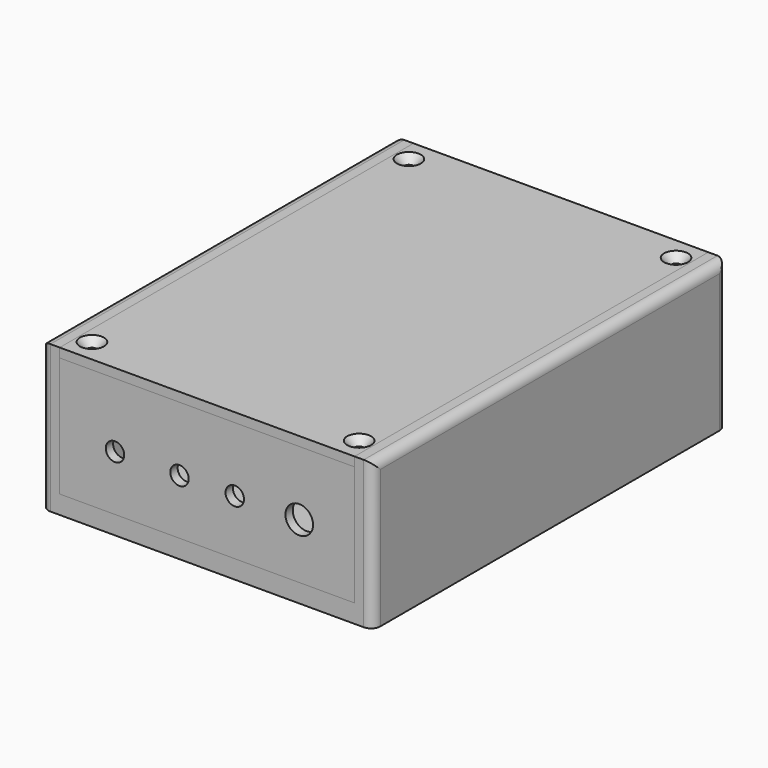
from build123d import *

# Parameters (mm, degrees)
F0_W              = 114.3
F0_H              = 152.4
F1_DEPTH          = 50.8
F2_W              = 101.6
F2_H              = 152.4
F3_DEPTH          = 44.45
F4_W              = 146.05
F4_H              = 41.275
F5_DEPTH          = 9.525
F7_R              = 3.175
F8_W              = 101.6
F8_H              = 152.4
F9_DEPTH          = 3.175
F11_D             = 3.175
F11_DEPTH         = 15.875
F11_CSINK_D       = 8.255
F11_CSINK_ANGLE   = 90
F11_TIP           = 0.9538662327
F11_2_D           = 3.175
F11_2_DEPTH       = 15.875
F11_2_CSINK_D     = 8.255
F11_2_CSINK_ANGLE = 90
F11_2_TIP         = 0.9538662327
F12_W             = 101.6
F12_H             = 41.275
F12_R             = 3.175
F12_R_2           = 4.7625
F13_DEPTH         = 3.175
F14_W             = 101.6
F14_H             = 41.275
F14_R             = 3.175
F14_R_2           = 2.2225
F15_DEPTH         = 3.175


with BuildPart() as f1:
    # F0 (on Top) → F1 (new body)
    with BuildSketch(Plane.XY):
        Rectangle(F0_W, F0_H)
    extrude(amount=F1_DEPTH)

    # F2 (on face) → F3 (cut, through all)
    with BuildSketch(Plane.XY.offset(50.8)):
        Rectangle(F2_W, F2_H)
    extrude(amount=-F3_DEPTH, mode=Mode.SUBTRACT)

    # F4 (on face) → F5 (join)
    with BuildSketch(Plane(origin=(50.8, 0, 0), x_dir=(0, -1, 0), z_dir=(-1, 0, 0))):
        with Locations((0, 26.9875)):
            Rectangle(F4_W, F4_H)
    extrude(amount=F5_DEPTH)

    # F6: F1 across plane


with BuildPart() as f1_1:
    add(f1.part)
    add(f1.part.mirror(Plane.YZ))

    # F7
    f7_edges = [f1_1.edges().sort_by_distance(p)[0] for p in [
        (57.15, 0, 50.8),
        (57.15, 76.2, 25.4),
        (57.15, -76.2, 25.4),
        (-57.15, 0, 50.8),
        (-57.15, 76.2, 25.4),
        (-57.15, -76.2, 25.4),
    ]]
    fillet(f7_edges, radius=F7_R)

    # F11
    with Locations(Plane.XY.offset(50.8)):
        with Locations((-46.0375, -68.2625), (46.0375, -68.2625), (46.0375, 68.2625), (-46.0375, 68.2625)):
            CounterSinkHole(F11_D / 2, F11_CSINK_D / 2, depth=F11_DEPTH, counter_sink_angle=F11_CSINK_ANGLE)
            with Locations((0, 0, -(F11_DEPTH + F11_TIP / 2))):  # 118° drill point
                Cone(0, F11_D / 2, F11_TIP, mode=Mode.SUBTRACT)


with BuildPart() as f9:
    # F8 (on face) → F9 (new body, through all)
    with BuildSketch(Plane.XY.offset(47.625)):
        Rectangle(F8_W, F8_H)
    extrude(amount=F9_DEPTH)

    # F11#2
    with Locations(Plane.XY.offset(50.8)):
        with Locations((-46.0375, -68.2625), (46.0375, -68.2625), (46.0375, 68.2625), (-46.0375, 68.2625)):
            CounterSinkHole(F11_2_D / 2, F11_2_CSINK_D / 2, depth=F11_2_DEPTH, counter_sink_angle=F11_2_CSINK_ANGLE)
            with Locations((0, 0, -(F11_2_DEPTH + F11_2_TIP / 2))):  # 118° drill point
                Cone(0, F11_2_D / 2, F11_2_TIP, mode=Mode.SUBTRACT)


with BuildPart() as f13:
    # F12 (on face) → F13 (new body, through all)
    with BuildSketch(Plane.XZ.offset(73.025)):
        with Locations((0, 26.9875)):
            Rectangle(F12_W, F12_H)
        with Locations((-31.75, 25.4)):
            Circle(F12_R, mode=Mode.SUBTRACT)
        with Locations((-9.525, 25.4)):
            Circle(F12_R, mode=Mode.SUBTRACT)
        with Locations((9.525, 25.4)):
            Circle(F12_R, mode=Mode.SUBTRACT)
        with Locations((31.75, 25.4)):
            Circle(F12_R_2, mode=Mode.SUBTRACT)
    extrude(amount=F13_DEPTH)


with BuildPart() as f15:
    # F14 (on face) → F15 (new body, through all)
    with BuildSketch(Plane(origin=(0, 73.025, 0), x_dir=(-1, 0, 0), z_dir=(0, 1, 0))):
        with Locations((0, 26.9875)):
            Rectangle(F14_W, F14_H)
        with Locations((-24.13, 25.4)):
            Circle(F14_R, mode=Mode.SUBTRACT)
        with Locations((1.27, 25.4)):
            Circle(F14_R_2, mode=Mode.SUBTRACT)
        with Locations((24.13, 25.4)):
            Circle(F14_R_2, mode=Mode.SUBTRACT)
    extrude(amount=F15_DEPTH)


solid = Compound([f1_1.part, f9.part, f13.part, f15.part])
